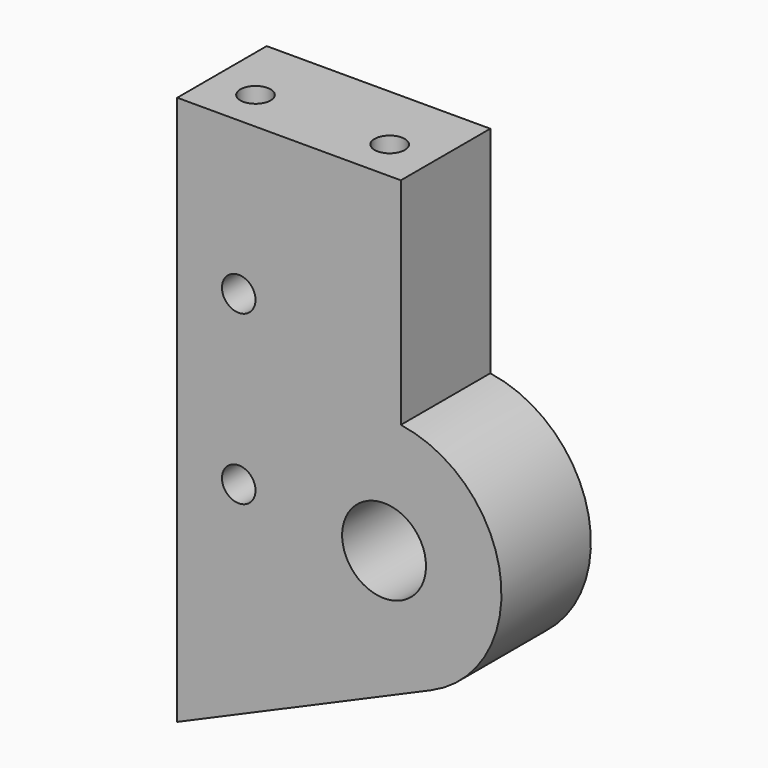
from build123d import *

# Parameters (mm, degrees)
F0_R     = 7.5
F1_DEPTH = 20
F3_D     = 5.4
F3_DEPTH = 20
F3_TIP   = 1.6223236714
F5_D     = 6


with BuildPart() as f1:
    # F0 (on Front) → F1 (new body)
    with BuildSketch(Plane.XZ):
        with BuildLine():
            Line((-37, -39), (8.3782552843, -19.2562934749))
            ThreePointArc((8.3782552843, -19.2562934749), (20.8130885481, 2.7955938707), (3, 20.7846096908))
            Line((3, 20.7846096908), (3, 59.3))
            Line((3, 59.3), (-37, 59.3))
            Line((-37, 59.3), (-37, -39))
        make_face()
        Circle(F0_R, mode=Mode.SUBTRACT)
    extrude(amount=F1_DEPTH)

    # F3
    with Locations(Plane.XY.offset(59.3)):
        with Locations((-29, -12.5), (-5, -12.5)):
            Hole(F3_D / 2, depth=F3_DEPTH)
            with Locations((0, 0, -(F3_DEPTH + F3_TIP / 2))):  # 118° drill point
                Cone(0, F3_D / 2, F3_TIP, mode=Mode.SUBTRACT)

    # F5 (through all)
    with Locations(Plane.XZ.offset(20)):
        with Locations((-26, 32), (-26, 2)):
            Hole(F5_D / 2)


solid = f1.part
